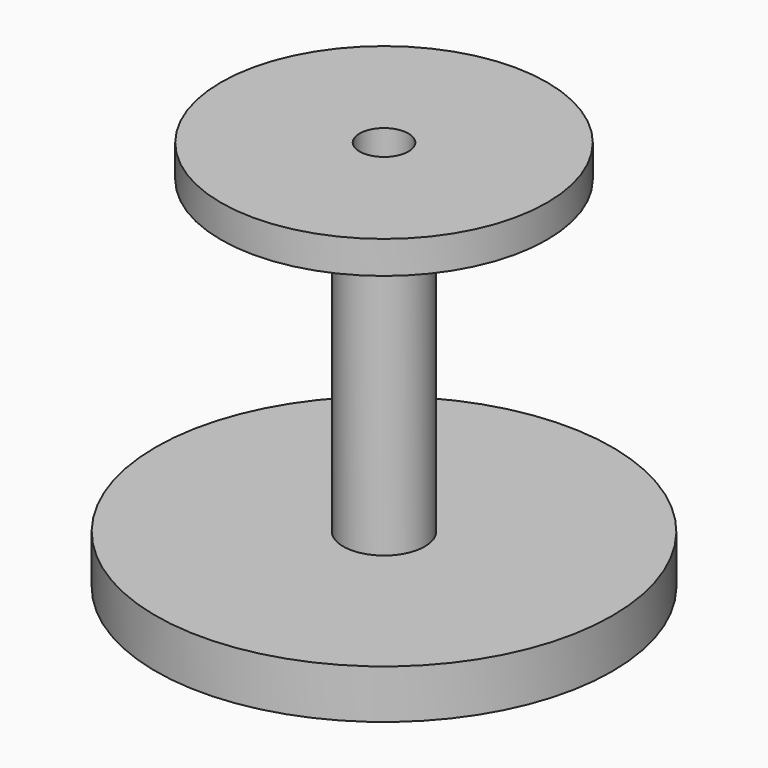
from build123d import *

# Parameters (mm, degrees)
F1_R     = 7
F1_R_2   = 0.75
F2_DEPTH = 1.5
F3_R     = 1.25
F3_R_2   = 0.75
F4_DEPTH = 9.5
F5_R     = 5
F5_R_2   = 1.25
F5_R_3   = 0.75
F6_DEPTH = 1


with BuildPart() as f2:
    # F1 (on offset) → F2 (new body)
    with BuildSketch(Plane.XY.offset(7)):
        Circle(F1_R)
        Circle(F1_R_2, mode=Mode.SUBTRACT)
    extrude(amount=F2_DEPTH)

    # F3 (on face) → F4 (join)
    with BuildSketch(Plane.XY.offset(8.5)):
        Circle(F3_R)
        Circle(F3_R_2, mode=Mode.SUBTRACT)
    extrude(amount=F4_DEPTH)

    # F5 (on face) → F6 (join)
    with BuildSketch(Plane.XY.offset(18)):
        Circle(F5_R)
        Circle(F5_R_2, mode=Mode.SUBTRACT)
        Circle(F5_R_2)
        Circle(F5_R_3, mode=Mode.SUBTRACT)
    extrude(amount=F6_DEPTH)


solid = f2.part
